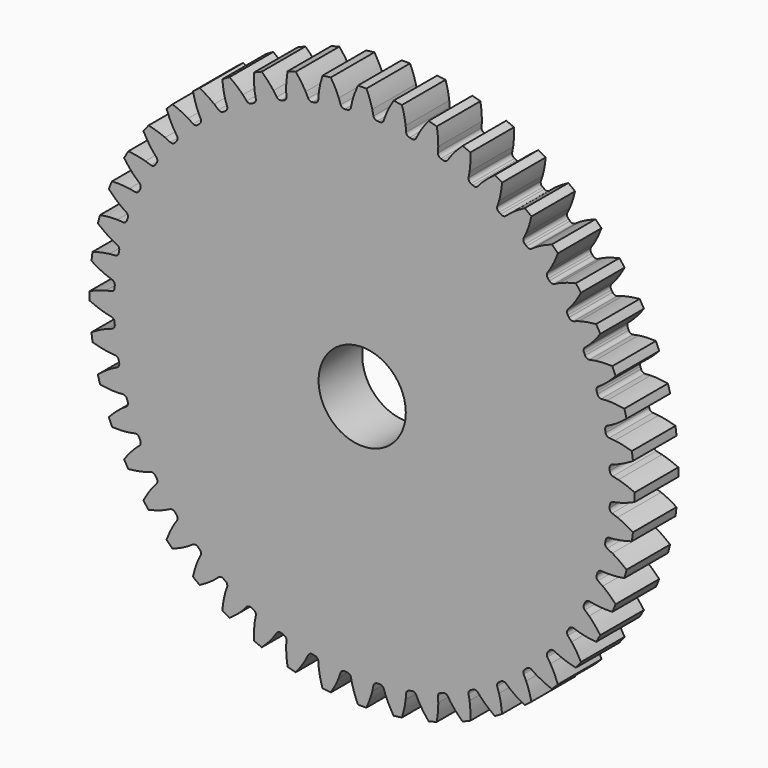
from build123d import *

# Parameters (mm, degrees)
CYLINDER003_R                              = 2
CYLINDER003_DEPTH                          = 5.5
CYLINDER003_ROLL_ANGLE                     = 90
EXTRUDE186_DEPTH                           = 2.5
EXTRUDE186_ONTO_INVOLUTEGEAR001_ROLL_ANGLE = 90


with BuildPart() as cylinder003:
    # Cylinder003 → Cylinder003 (new body)
    with BuildSketch(Plane.XY):
        Circle(CYLINDER003_R)
    extrude(amount=CYLINDER003_DEPTH)


with BuildPart() as cylinder003_1:
    # Cylinder003 roll: moved
    add(cylinder003.part.rotate(Axis((0, 0, 0), (1, 0, 0)), CYLINDER003_ROLL_ANGLE))


with BuildPart() as cylinder003_2:
    # Cylinder003 placement: moved
    add(cylinder003_1.part.moved(Location((-44.75, 22, 11))))


with BuildPart() as cut084:
    # InvoluteGear001 as drawn → Extrude186 (new)
    with BuildSketch(Plane.XY):
        with BuildLine():
            add(Edge.make_bspline(
                [(11.488349, -0.517536), (11.559173, -0.506647), (11.646268, -0.489809), (11.748836, -0.463864)],
                knots=[0, 0, 0, 0, 1, 1, 1, 1], degree=3))
            add(Edge.make_bspline(
                [(11.748836, -0.463864), (11.945939, -0.413978), (12.198803, -0.330892), (12.498691, -0.193151)],
                knots=[0, 0, 0, 0, 1, 1, 1, 1], degree=3))
            ThreePointArc((12.498691, -0.193151), (12.500183, 0), (12.498691, 0.193151))
            add(Edge.make_bspline(
                [(12.498691, 0.193151), (12.198803, 0.330892), (11.945939, 0.413978), (11.748836, 0.463864)],
                knots=[0, 0, 0, 0, 1, 1, 1, 1], degree=3))
            add(Edge.make_bspline(
                [(11.748836, 0.463864), (11.646268, 0.489809), (11.559173, 0.506647), (11.488363, 0.517533)],
                knots=[0, 0, 0, 0, 1, 1, 1, 1], degree=3))
            ThreePointArc((11.488363, 0.517533), (11.391484, 0.584533), (11.353681, 0.696092))
            ThreePointArc((11.353681, 0.696092), (11.350645, 0.743961), (11.347407, 0.791816))
            ThreePointArc((11.347407, 0.791816), (11.370321, 0.907349), (11.457616, 0.986422))
            add(Edge.make_bspline(
                [(11.457616, 0.986422), (11.526413, 1.006462), (11.610566, 1.034525), (11.70887, 1.073635)],
                knots=[0, 0, 0, 0, 1, 1, 1, 1], degree=3))
            add(Edge.make_bspline(
                [(11.70887, 1.073635), (11.897775, 1.148822), (12.137631, 1.264203), (12.416974, 1.439908)],
                knots=[0, 0, 0, 0, 1, 1, 1, 1], degree=3))
            ThreePointArc((12.416974, 1.439908), (12.393243, 1.631601), (12.366552, 1.822905))
            add(Edge.make_bspline(
                [(12.366552, 1.822905), (12.051251, 1.920324), (11.789705, 1.969694), (11.587777, 1.993427)],
                knots=[0, 0, 0, 0, 1, 1, 1, 1], degree=3))
            add(Edge.make_bspline(
                [(11.587777, 1.993427), (11.4827, 2.005762), (11.394152, 2.011087), (11.322527, 2.012638)],
                knots=[0, 0, 0, 0, 1, 1, 1, 1], degree=3))
            ThreePointArc((11.322527, 2.012638), (11.217731, 2.066419), (11.165691, 2.17209))
            ThreePointArc((11.165691, 2.17209), (11.156433, 2.219152), (11.146976, 2.266176))
            ThreePointArc((11.146976, 2.266176), (11.154613, 2.383711), (11.230841, 2.473502))
            add(Edge.make_bspline(
                [(11.230841, 2.473502), (11.296433, 2.502351), (11.376203, 2.541157), (11.468562, 2.592764)],
                knots=[0, 0, 0, 0, 1, 1, 1, 1], degree=3))
            add(Edge.make_bspline(
                [(11.468562, 2.592764), (11.646036, 2.691965), (11.86878, 2.837666), (12.1228, 3.048329)],
                knots=[0, 0, 0, 0, 1, 1, 1, 1], degree=3))
            ThreePointArc((12.1228, 3.048329), (12.07425, 3.235286), (12.022817, 3.421469))
            add(Edge.make_bspline(
                [(12.022817, 3.421469), (11.697498, 3.476899), (11.431746, 3.491708), (11.228448, 3.488881)],
                knots=[0, 0, 0, 0, 1, 1, 1, 1], degree=3))
            add(Edge.make_bspline(
                [(11.228448, 3.488881), (11.122659, 3.487395), (11.034173, 3.481118), (10.962959, 3.473306)],
                knots=[0, 0, 0, 0, 1, 1, 1, 1], degree=3))
            ThreePointArc((10.962959, 3.473306), (10.85204, 3.512948), (10.786652, 3.610922))
            ThreePointArc((10.786652, 3.610922), (10.77133, 3.656374), (10.755817, 3.701761))
            ThreePointArc((10.755817, 3.701761), (10.748047, 3.819288), (10.811903, 3.918259))
            add(Edge.make_bspline(
                [(10.811903, 3.918259), (10.873168, 3.955423), (10.947191, 4.00431), (11.032023, 4.06753)],
                knots=[0, 0, 0, 0, 1, 1, 1, 1], degree=3))
            add(Edge.make_bspline(
                [(11.032023, 4.06753), (11.195031, 4.189047), (11.396851, 4.362576), (11.621201, 4.604593)],
                knots=[0, 0, 0, 0, 1, 1, 1, 1], degree=3))
            ThreePointArc((11.621201, 4.604593), (11.548664, 4.783613), (11.473369, 4.96149))
            add(Edge.make_bspline(
                [(11.473369, 4.96149), (11.143598, 4.973984), (10.878186, 4.953978), (10.676996, 4.92464)],
                knots=[0, 0, 0, 0, 1, 1, 1, 1], degree=3))
            add(Edge.make_bspline(
                [(10.676996, 4.92464), (10.572307, 4.909358), (10.485398, 4.891585), (10.415812, 4.874544)],
                knots=[0, 0, 0, 0, 1, 1, 1, 1], degree=3))
            ThreePointArc((10.415812, 4.874544), (10.300668, 4.89937), (10.223051, 4.987971))
            ThreePointArc((10.223051, 4.987971), (10.201927, 5.031034), (10.180623, 5.074007))
            ThreePointArc((10.180623, 5.074007), (10.157579, 5.189515), (10.20797, 5.295975))
            add(Edge.make_bspline(
                [(10.20797, 5.295975), (10.263861, 5.340817), (10.330869, 5.398947), (10.406723, 5.4727)],
                knots=[0, 0, 0, 0, 1, 1, 1, 1], degree=3))
            add(Edge.make_bspline(
                [(10.406723, 5.4727), (10.552475, 5.614454), (10.729919, 5.812841), (10.92076, 6.082072)],
                knots=[0, 0, 0, 0, 1, 1, 1, 1], degree=3))
            ThreePointArc((10.92076, 6.082072), (10.825476, 6.250092), (10.727608, 6.416619))
            add(Edge.make_bspline(
                [(10.727608, 6.416619), (10.399028, 6.385962), (10.138498, 6.331485), (9.942859, 6.276137)],
                knots=[0, 0, 0, 0, 1, 1, 1, 1], degree=3))
            add(Edge.make_bspline(
                [(9.942859, 6.276137), (9.84106, 6.247321), (9.757214, 6.218356), (9.690447, 6.192378)],
                knots=[0, 0, 0, 0, 1, 1, 1, 1], degree=3))
            ThreePointArc((9.690447, 6.192378), (9.573048, 6.201962), (9.48453, 6.279674))
            ThreePointArc((9.48453, 6.279674), (9.457967, 6.319611), (9.431235, 6.359436))
            ThreePointArc((9.431235, 6.359436), (9.393312, 6.470948), (9.429376, 6.583074))
            add(Edge.make_bspline(
                [(9.429376, 6.583074), (9.478935, 6.634828), (9.537783, 6.701207), (9.603361, 6.78423)],
                knots=[0, 0, 0, 0, 1, 1, 1, 1], degree=3))
            add(Edge.make_bspline(
                [(9.603361, 6.78423), (9.729364, 6.943796), (9.879395, 7.163647), (10.033461, 7.455484)],
                knots=[0, 0, 0, 0, 1, 1, 1, 1], degree=3))
            ThreePointArc((10.033461, 7.455484), (9.917062, 7.609629), (9.798295, 7.761958))
            add(Edge.make_bspline(
                [(9.798295, 7.761958), (9.476527, 7.688675), (9.225337, 7.600657), (9.038596, 7.520247)],
                knots=[0, 0, 0, 0, 1, 1, 1, 1], degree=3))
            add(Edge.make_bspline(
                [(9.038596, 7.520247), (8.941429, 7.47839), (8.862081, 7.438729), (8.799277, 7.404259)],
                knots=[0, 0, 0, 0, 1, 1, 1, 1], degree=3))
            ThreePointArc((8.799277, 7.404259), (8.681631, 7.398437), (8.583727, 7.46393))
            ThreePointArc((8.583727, 7.46393), (8.552178, 7.500059), (8.520476, 7.536054))
            ThreePointArc((8.520476, 7.536054), (8.468323, 7.641661), (8.489443, 7.757536))
            add(Edge.make_bspline(
                [(8.489443, 7.757536), (8.531823, 7.815316), (8.581502, 7.888808), (8.635684, 7.97968)],
                knots=[0, 0, 0, 0, 1, 1, 1, 1], degree=3))
            add(Edge.make_bspline(
                [(8.635684, 7.97968), (8.739781, 8.154328), (8.859832, 8.391881), (8.974488, 8.701331)],
                knots=[0, 0, 0, 0, 1, 1, 1, 1], degree=3))
            ThreePointArc((8.974488, 8.701331), (8.838964, 8.838964), (8.701331, 8.974488))
            add(Edge.make_bspline(
                [(8.701331, 8.974488), (8.391881, 8.859832), (8.154328, 8.739781), (7.97968, 8.635684)],
                knots=[0, 0, 0, 0, 1, 1, 1, 1], degree=3))
            add(Edge.make_bspline(
                [(7.97968, 8.635684), (7.888808, 8.581502), (7.815316, 8.531823), (7.757548, 8.489451)],
                knots=[0, 0, 0, 0, 1, 1, 1, 1], degree=3))
            ThreePointArc((7.757548, 8.489451), (7.641668, 8.468323), (7.536054, 8.520476))
            ThreePointArc((7.536054, 8.520476), (7.500059, 8.552178), (7.46393, 8.583727))
            ThreePointArc((7.46393, 8.583727), (7.398438, 8.681624), (7.404253, 8.799264))
            add(Edge.make_bspline(
                [(7.404253, 8.799264), (7.438729, 8.862081), (7.47839, 8.941429), (7.520247, 9.038596)],
                knots=[0, 0, 0, 0, 1, 1, 1, 1], degree=3))
            add(Edge.make_bspline(
                [(7.520247, 9.038596), (7.600657, 9.225337), (7.688675, 9.476527), (7.761958, 9.798295)],
                knots=[0, 0, 0, 0, 1, 1, 1, 1], degree=3))
            ThreePointArc((7.761958, 9.798295), (7.609629, 9.917062), (7.455484, 10.033461))
            add(Edge.make_bspline(
                [(7.455484, 10.033461), (7.163647, 9.879395), (6.943796, 9.729364), (6.78423, 9.603361)],
                knots=[0, 0, 0, 0, 1, 1, 1, 1], degree=3))
            add(Edge.make_bspline(
                [(6.78423, 9.603361), (6.701207, 9.537783), (6.634828, 9.478935), (6.583085, 9.429385)],
                knots=[0, 0, 0, 0, 1, 1, 1, 1], degree=3))
            ThreePointArc((6.583085, 9.429385), (6.470955, 9.393313), (6.359436, 9.431235))
            ThreePointArc((6.359436, 9.431235), (6.319611, 9.457967), (6.279674, 9.48453))
            ThreePointArc((6.279674, 9.48453), (6.201964, 9.573041), (6.192374, 9.690434))
            add(Edge.make_bspline(
                [(6.192374, 9.690434), (6.218356, 9.757214), (6.247321, 9.84106), (6.276137, 9.942859)],
                knots=[0, 0, 0, 0, 1, 1, 1, 1], degree=3))
            add(Edge.make_bspline(
                [(6.276137, 9.942859), (6.331485, 10.138498), (6.385962, 10.399028), (6.416619, 10.727608)],
                knots=[0, 0, 0, 0, 1, 1, 1, 1], degree=3))
            ThreePointArc((6.416619, 10.727608), (6.250092, 10.825476), (6.082072, 10.92076))
            add(Edge.make_bspline(
                [(6.082072, 10.92076), (5.812841, 10.729919), (5.614454, 10.552475), (5.4727, 10.406723)],
                knots=[0, 0, 0, 0, 1, 1, 1, 1], degree=3))
            add(Edge.make_bspline(
                [(5.4727, 10.406723), (5.398947, 10.330869), (5.340817, 10.263861), (5.295985, 10.207981)],
                knots=[0, 0, 0, 0, 1, 1, 1, 1], degree=3))
            ThreePointArc((5.295985, 10.207981), (5.189522, 10.157581), (5.074007, 10.180623))
            ThreePointArc((5.074007, 10.180623), (5.031034, 10.201927), (4.987971, 10.223051))
            ThreePointArc((4.987971, 10.223051), (4.899373, 10.300661), (4.874542, 10.415798))
            add(Edge.make_bspline(
                [(4.874542, 10.415798), (4.891585, 10.485398), (4.909358, 10.572307), (4.92464, 10.676996)],
                knots=[0, 0, 0, 0, 1, 1, 1, 1], degree=3))
            add(Edge.make_bspline(
                [(4.92464, 10.676996), (4.953978, 10.878186), (4.973984, 11.143598), (4.96149, 11.473369)],
                knots=[0, 0, 0, 0, 1, 1, 1, 1], degree=3))
            ThreePointArc((4.96149, 11.473369), (4.783613, 11.548664), (4.604593, 11.621201))
            add(Edge.make_bspline(
                [(4.604593, 11.621201), (4.362576, 11.396851), (4.189047, 11.195031), (4.06753, 11.032023)],
                knots=[0, 0, 0, 0, 1, 1, 1, 1], degree=3))
            add(Edge.make_bspline(
                [(4.06753, 11.032023), (4.00431, 10.947191), (3.955423, 10.873168), (3.918268, 10.811915)],
                knots=[0, 0, 0, 0, 1, 1, 1, 1], degree=3))
            ThreePointArc((3.918268, 10.811915), (3.819294, 10.74805), (3.701761, 10.755817))
            ThreePointArc((3.701761, 10.755817), (3.656374, 10.77133), (3.610922, 10.786652))
            ThreePointArc((3.610922, 10.786652), (3.512952, 10.852034), (3.473305, 10.962944))
            add(Edge.make_bspline(
                [(3.473305, 10.962944), (3.481118, 11.034173), (3.487395, 11.122659), (3.488881, 11.228448)],
                knots=[0, 0, 0, 0, 1, 1, 1, 1], degree=3))
            add(Edge.make_bspline(
                [(3.488881, 11.228448), (3.491708, 11.431746), (3.476899, 11.697498), (3.421469, 12.022817)],
                knots=[0, 0, 0, 0, 1, 1, 1, 1], degree=3))
            ThreePointArc((3.421469, 12.022817), (3.235286, 12.07425), (3.048329, 12.1228))
            add(Edge.make_bspline(
                [(3.048329, 12.1228), (2.837666, 11.86878), (2.691965, 11.646036), (2.592764, 11.468562)],
                knots=[0, 0, 0, 0, 1, 1, 1, 1], degree=3))
            add(Edge.make_bspline(
                [(2.592764, 11.468562), (2.541157, 11.376203), (2.502351, 11.296433), (2.473508, 11.230854)],
                knots=[0, 0, 0, 0, 1, 1, 1, 1], degree=3))
            ThreePointArc((2.473508, 11.230854), (2.383718, 11.154617), (2.266176, 11.146976))
            ThreePointArc((2.266176, 11.146976), (2.219152, 11.156433), (2.17209, 11.165691))
            ThreePointArc((2.17209, 11.165691), (2.066424, 11.217726), (2.012639, 11.322512))
            add(Edge.make_bspline(
                [(2.012639, 11.322512), (2.011087, 11.394152), (2.005762, 11.4827), (1.993427, 11.587777)],
                knots=[0, 0, 0, 0, 1, 1, 1, 1], degree=3))
            add(Edge.make_bspline(
                [(1.993427, 11.587777), (1.969694, 11.789705), (1.920324, 12.051251), (1.822905, 12.366552)],
                knots=[0, 0, 0, 0, 1, 1, 1, 1], degree=3))
            ThreePointArc((1.822905, 12.366552), (1.631601, 12.393243), (1.439908, 12.416974))
            add(Edge.make_bspline(
                [(1.439908, 12.416974), (1.264203, 12.137631), (1.148822, 11.897775), (1.073635, 11.70887)],
                knots=[0, 0, 0, 0, 1, 1, 1, 1], degree=3))
            add(Edge.make_bspline(
                [(1.073635, 11.70887), (1.034525, 11.610566), (1.006462, 11.526413), (0.986427, 11.45763)],
                knots=[0, 0, 0, 0, 1, 1, 1, 1], degree=3))
            ThreePointArc((0.986427, 11.45763), (0.907355, 11.370325), (0.791816, 11.347407))
            ThreePointArc((0.791816, 11.347407), (0.743961, 11.350645), (0.696092, 11.353681))
            ThreePointArc((0.696092, 11.353681), (0.584538, 11.391479), (0.517536, 11.488349))
            add(Edge.make_bspline(
                [(0.517536, 11.488349), (0.506647, 11.559173), (0.489809, 11.646268), (0.463864, 11.748836)],
                knots=[0, 0, 0, 0, 1, 1, 1, 1], degree=3))
            add(Edge.make_bspline(
                [(0.463864, 11.748836), (0.413978, 11.945939), (0.330892, 12.198803), (0.193151, 12.498691)],
                knots=[0, 0, 0, 0, 1, 1, 1, 1], degree=3))
            ThreePointArc((0.193151, 12.498691), (0, 12.500183), (-0.193151, 12.498691))
            add(Edge.make_bspline(
                [(-0.193151, 12.498691), (-0.330892, 12.198803), (-0.413978, 11.945939), (-0.463864, 11.748836)],
                knots=[0, 0, 0, 0, 1, 1, 1, 1], degree=3))
            add(Edge.make_bspline(
                [(-0.463864, 11.748836), (-0.489809, 11.646268), (-0.506647, 11.559173), (-0.517533, 11.488363)],
                knots=[0, 0, 0, 0, 1, 1, 1, 1], degree=3))
            ThreePointArc((-0.517533, 11.488363), (-0.584533, 11.391484), (-0.696092, 11.353681))
            ThreePointArc((-0.696092, 11.353681), (-0.743961, 11.350645), (-0.791816, 11.347407))
            ThreePointArc((-0.791816, 11.347407), (-0.907349, 11.370321), (-0.986422, 11.457616))
            add(Edge.make_bspline(
                [(-0.986422, 11.457616), (-1.006462, 11.526413), (-1.034525, 11.610566), (-1.073635, 11.70887)],
                knots=[0, 0, 0, 0, 1, 1, 1, 1], degree=3))
            add(Edge.make_bspline(
                [(-1.073635, 11.70887), (-1.148822, 11.897775), (-1.264203, 12.137631), (-1.439908, 12.416974)],
                knots=[0, 0, 0, 0, 1, 1, 1, 1], degree=3))
            ThreePointArc((-1.439908, 12.416974), (-1.631601, 12.393243), (-1.822905, 12.366552))
            add(Edge.make_bspline(
                [(-1.822905, 12.366552), (-1.920324, 12.051251), (-1.969694, 11.789705), (-1.993427, 11.587777)],
                knots=[0, 0, 0, 0, 1, 1, 1, 1], degree=3))
            add(Edge.make_bspline(
                [(-1.993427, 11.587777), (-2.005762, 11.4827), (-2.011087, 11.394152), (-2.012638, 11.322527)],
                knots=[0, 0, 0, 0, 1, 1, 1, 1], degree=3))
            ThreePointArc((-2.012638, 11.322527), (-2.066419, 11.217731), (-2.17209, 11.165691))
            ThreePointArc((-2.17209, 11.165691), (-2.219152, 11.156433), (-2.266176, 11.146976))
            ThreePointArc((-2.266176, 11.146976), (-2.383711, 11.154613), (-2.473502, 11.230841))
            add(Edge.make_bspline(
                [(-2.473502, 11.230841), (-2.502351, 11.296433), (-2.541157, 11.376203), (-2.592764, 11.468562)],
                knots=[0, 0, 0, 0, 1, 1, 1, 1], degree=3))
            add(Edge.make_bspline(
                [(-2.592764, 11.468562), (-2.691965, 11.646036), (-2.837666, 11.86878), (-3.048329, 12.1228)],
                knots=[0, 0, 0, 0, 1, 1, 1, 1], degree=3))
            ThreePointArc((-3.048329, 12.1228), (-3.235286, 12.07425), (-3.421469, 12.022817))
            add(Edge.make_bspline(
                [(-3.421469, 12.022817), (-3.476899, 11.697498), (-3.491708, 11.431746), (-3.488881, 11.228448)],
                knots=[0, 0, 0, 0, 1, 1, 1, 1], degree=3))
            add(Edge.make_bspline(
                [(-3.488881, 11.228448), (-3.487395, 11.122659), (-3.481118, 11.034173), (-3.473306, 10.962959)],
                knots=[0, 0, 0, 0, 1, 1, 1, 1], degree=3))
            ThreePointArc((-3.473306, 10.962959), (-3.512948, 10.85204), (-3.610922, 10.786652))
            ThreePointArc((-3.610922, 10.786652), (-3.656374, 10.77133), (-3.701761, 10.755817))
            ThreePointArc((-3.701761, 10.755817), (-3.819288, 10.748047), (-3.918259, 10.811903))
            add(Edge.make_bspline(
                [(-3.918259, 10.811903), (-3.955423, 10.873168), (-4.00431, 10.947191), (-4.06753, 11.032023)],
                knots=[0, 0, 0, 0, 1, 1, 1, 1], degree=3))
            add(Edge.make_bspline(
                [(-4.06753, 11.032023), (-4.189047, 11.195031), (-4.362576, 11.396851), (-4.604593, 11.621201)],
                knots=[0, 0, 0, 0, 1, 1, 1, 1], degree=3))
            ThreePointArc((-4.604593, 11.621201), (-4.783613, 11.548664), (-4.96149, 11.473369))
            add(Edge.make_bspline(
                [(-4.96149, 11.473369), (-4.973984, 11.143598), (-4.953978, 10.878186), (-4.92464, 10.676996)],
                knots=[0, 0, 0, 0, 1, 1, 1, 1], degree=3))
            add(Edge.make_bspline(
                [(-4.92464, 10.676996), (-4.909358, 10.572307), (-4.891585, 10.485398), (-4.874544, 10.415812)],
                knots=[0, 0, 0, 0, 1, 1, 1, 1], degree=3))
            ThreePointArc((-4.874544, 10.415812), (-4.89937, 10.300668), (-4.987971, 10.223051))
            ThreePointArc((-4.987971, 10.223051), (-5.031034, 10.201927), (-5.074007, 10.180623))
            ThreePointArc((-5.074007, 10.180623), (-5.189515, 10.157579), (-5.295975, 10.20797))
            add(Edge.make_bspline(
                [(-5.295975, 10.20797), (-5.340817, 10.263861), (-5.398947, 10.330869), (-5.4727, 10.406723)],
                knots=[0, 0, 0, 0, 1, 1, 1, 1], degree=3))
            add(Edge.make_bspline(
                [(-5.4727, 10.406723), (-5.614454, 10.552475), (-5.812841, 10.729919), (-6.082072, 10.92076)],
                knots=[0, 0, 0, 0, 1, 1, 1, 1], degree=3))
            ThreePointArc((-6.082072, 10.92076), (-6.250092, 10.825476), (-6.416619, 10.727608))
            add(Edge.make_bspline(
                [(-6.416619, 10.727608), (-6.385962, 10.399028), (-6.331485, 10.138498), (-6.276137, 9.942859)],
                knots=[0, 0, 0, 0, 1, 1, 1, 1], degree=3))
            add(Edge.make_bspline(
                [(-6.276137, 9.942859), (-6.247321, 9.84106), (-6.218356, 9.757214), (-6.192378, 9.690447)],
                knots=[0, 0, 0, 0, 1, 1, 1, 1], degree=3))
            ThreePointArc((-6.192378, 9.690447), (-6.201962, 9.573048), (-6.279674, 9.48453))
            ThreePointArc((-6.279674, 9.48453), (-6.319611, 9.457967), (-6.359436, 9.431235))
            ThreePointArc((-6.359436, 9.431235), (-6.470948, 9.393312), (-6.583074, 9.429376))
            add(Edge.make_bspline(
                [(-6.583074, 9.429376), (-6.634828, 9.478935), (-6.701207, 9.537783), (-6.78423, 9.603361)],
                knots=[0, 0, 0, 0, 1, 1, 1, 1], degree=3))
            add(Edge.make_bspline(
                [(-6.78423, 9.603361), (-6.943796, 9.729364), (-7.163647, 9.879395), (-7.455484, 10.033461)],
                knots=[0, 0, 0, 0, 1, 1, 1, 1], degree=3))
            ThreePointArc((-7.455484, 10.033461), (-7.609629, 9.917062), (-7.761958, 9.798295))
            add(Edge.make_bspline(
                [(-7.761958, 9.798295), (-7.688675, 9.476527), (-7.600657, 9.225337), (-7.520247, 9.038596)],
                knots=[0, 0, 0, 0, 1, 1, 1, 1], degree=3))
            add(Edge.make_bspline(
                [(-7.520247, 9.038596), (-7.47839, 8.941429), (-7.438729, 8.862081), (-7.404259, 8.799277)],
                knots=[0, 0, 0, 0, 1, 1, 1, 1], degree=3))
            ThreePointArc((-7.404259, 8.799277), (-7.398437, 8.681631), (-7.46393, 8.583727))
            ThreePointArc((-7.46393, 8.583727), (-7.500059, 8.552178), (-7.536054, 8.520476))
            ThreePointArc((-7.536054, 8.520476), (-7.641661, 8.468323), (-7.757536, 8.489443))
            add(Edge.make_bspline(
                [(-7.757536, 8.489443), (-7.815316, 8.531823), (-7.888808, 8.581502), (-7.97968, 8.635684)],
                knots=[0, 0, 0, 0, 1, 1, 1, 1], degree=3))
            add(Edge.make_bspline(
                [(-7.97968, 8.635684), (-8.154328, 8.739781), (-8.391881, 8.859832), (-8.701331, 8.974488)],
                knots=[0, 0, 0, 0, 1, 1, 1, 1], degree=3))
            ThreePointArc((-8.701331, 8.974488), (-8.838964, 8.838964), (-8.974488, 8.701331))
            add(Edge.make_bspline(
                [(-8.974488, 8.701331), (-8.859832, 8.391881), (-8.739781, 8.154328), (-8.635684, 7.97968)],
                knots=[0, 0, 0, 0, 1, 1, 1, 1], degree=3))
            add(Edge.make_bspline(
                [(-8.635684, 7.97968), (-8.581502, 7.888808), (-8.531823, 7.815316), (-8.489451, 7.757548)],
                knots=[0, 0, 0, 0, 1, 1, 1, 1], degree=3))
            ThreePointArc((-8.489451, 7.757548), (-8.468323, 7.641668), (-8.520476, 7.536054))
            ThreePointArc((-8.520476, 7.536054), (-8.552178, 7.500059), (-8.583727, 7.46393))
            ThreePointArc((-8.583727, 7.46393), (-8.681624, 7.398438), (-8.799264, 7.404253))
            add(Edge.make_bspline(
                [(-8.799264, 7.404253), (-8.862081, 7.438729), (-8.941429, 7.47839), (-9.038596, 7.520247)],
                knots=[0, 0, 0, 0, 1, 1, 1, 1], degree=3))
            add(Edge.make_bspline(
                [(-9.038596, 7.520247), (-9.225337, 7.600657), (-9.476527, 7.688675), (-9.798295, 7.761958)],
                knots=[0, 0, 0, 0, 1, 1, 1, 1], degree=3))
            ThreePointArc((-9.798295, 7.761958), (-9.917062, 7.609629), (-10.033461, 7.455484))
            add(Edge.make_bspline(
                [(-10.033461, 7.455484), (-9.879395, 7.163647), (-9.729364, 6.943796), (-9.603361, 6.78423)],
                knots=[0, 0, 0, 0, 1, 1, 1, 1], degree=3))
            add(Edge.make_bspline(
                [(-9.603361, 6.78423), (-9.537783, 6.701207), (-9.478935, 6.634828), (-9.429385, 6.583085)],
                knots=[0, 0, 0, 0, 1, 1, 1, 1], degree=3))
            ThreePointArc((-9.429385, 6.583085), (-9.393313, 6.470955), (-9.431235, 6.359436))
            ThreePointArc((-9.431235, 6.359436), (-9.457967, 6.319611), (-9.48453, 6.279674))
            ThreePointArc((-9.48453, 6.279674), (-9.573041, 6.201964), (-9.690434, 6.192374))
            add(Edge.make_bspline(
                [(-9.690434, 6.192374), (-9.757214, 6.218356), (-9.84106, 6.247321), (-9.942859, 6.276137)],
                knots=[0, 0, 0, 0, 1, 1, 1, 1], degree=3))
            add(Edge.make_bspline(
                [(-9.942859, 6.276137), (-10.138498, 6.331485), (-10.399028, 6.385962), (-10.727608, 6.416619)],
                knots=[0, 0, 0, 0, 1, 1, 1, 1], degree=3))
            ThreePointArc((-10.727608, 6.416619), (-10.825476, 6.250092), (-10.92076, 6.082072))
            add(Edge.make_bspline(
                [(-10.92076, 6.082072), (-10.729919, 5.812841), (-10.552475, 5.614454), (-10.406723, 5.4727)],
                knots=[0, 0, 0, 0, 1, 1, 1, 1], degree=3))
            add(Edge.make_bspline(
                [(-10.406723, 5.4727), (-10.330869, 5.398947), (-10.263861, 5.340817), (-10.207981, 5.295985)],
                knots=[0, 0, 0, 0, 1, 1, 1, 1], degree=3))
            ThreePointArc((-10.207981, 5.295985), (-10.157581, 5.189522), (-10.180623, 5.074007))
            ThreePointArc((-10.180623, 5.074007), (-10.201927, 5.031034), (-10.223051, 4.987971))
            ThreePointArc((-10.223051, 4.987971), (-10.300661, 4.899373), (-10.415798, 4.874542))
            add(Edge.make_bspline(
                [(-10.415798, 4.874542), (-10.485398, 4.891585), (-10.572307, 4.909358), (-10.676996, 4.92464)],
                knots=[0, 0, 0, 0, 1, 1, 1, 1], degree=3))
            add(Edge.make_bspline(
                [(-10.676996, 4.92464), (-10.878186, 4.953978), (-11.143598, 4.973984), (-11.473369, 4.96149)],
                knots=[0, 0, 0, 0, 1, 1, 1, 1], degree=3))
            ThreePointArc((-11.473369, 4.96149), (-11.548664, 4.783613), (-11.621201, 4.604593))
            add(Edge.make_bspline(
                [(-11.621201, 4.604593), (-11.396851, 4.362576), (-11.195031, 4.189047), (-11.032023, 4.06753)],
                knots=[0, 0, 0, 0, 1, 1, 1, 1], degree=3))
            add(Edge.make_bspline(
                [(-11.032023, 4.06753), (-10.947191, 4.00431), (-10.873168, 3.955423), (-10.811915, 3.918268)],
                knots=[0, 0, 0, 0, 1, 1, 1, 1], degree=3))
            ThreePointArc((-10.811915, 3.918268), (-10.74805, 3.819294), (-10.755817, 3.701761))
            ThreePointArc((-10.755817, 3.701761), (-10.77133, 3.656374), (-10.786652, 3.610922))
            ThreePointArc((-10.786652, 3.610922), (-10.852034, 3.512952), (-10.962944, 3.473305))
            add(Edge.make_bspline(
                [(-10.962944, 3.473305), (-11.034173, 3.481118), (-11.122659, 3.487395), (-11.228448, 3.488881)],
                knots=[0, 0, 0, 0, 1, 1, 1, 1], degree=3))
            add(Edge.make_bspline(
                [(-11.228448, 3.488881), (-11.431746, 3.491708), (-11.697498, 3.476899), (-12.022817, 3.421469)],
                knots=[0, 0, 0, 0, 1, 1, 1, 1], degree=3))
            ThreePointArc((-12.022817, 3.421469), (-12.07425, 3.235286), (-12.1228, 3.048329))
            add(Edge.make_bspline(
                [(-12.1228, 3.048329), (-11.86878, 2.837666), (-11.646036, 2.691965), (-11.468562, 2.592764)],
                knots=[0, 0, 0, 0, 1, 1, 1, 1], degree=3))
            add(Edge.make_bspline(
                [(-11.468562, 2.592764), (-11.376203, 2.541157), (-11.296433, 2.502351), (-11.230854, 2.473508)],
                knots=[0, 0, 0, 0, 1, 1, 1, 1], degree=3))
            ThreePointArc((-11.230854, 2.473508), (-11.154617, 2.383718), (-11.146976, 2.266176))
            ThreePointArc((-11.146976, 2.266176), (-11.156433, 2.219152), (-11.165691, 2.17209))
            ThreePointArc((-11.165691, 2.17209), (-11.217726, 2.066424), (-11.322512, 2.012639))
            add(Edge.make_bspline(
                [(-11.322512, 2.012639), (-11.394152, 2.011087), (-11.4827, 2.005762), (-11.587777, 1.993427)],
                knots=[0, 0, 0, 0, 1, 1, 1, 1], degree=3))
            add(Edge.make_bspline(
                [(-11.587777, 1.993427), (-11.789705, 1.969694), (-12.051251, 1.920324), (-12.366552, 1.822905)],
                knots=[0, 0, 0, 0, 1, 1, 1, 1], degree=3))
            ThreePointArc((-12.366552, 1.822905), (-12.393243, 1.631601), (-12.416974, 1.439908))
            add(Edge.make_bspline(
                [(-12.416974, 1.439908), (-12.137631, 1.264203), (-11.897775, 1.148822), (-11.70887, 1.073635)],
                knots=[0, 0, 0, 0, 1, 1, 1, 1], degree=3))
            add(Edge.make_bspline(
                [(-11.70887, 1.073635), (-11.610566, 1.034525), (-11.526413, 1.006462), (-11.45763, 0.986427)],
                knots=[0, 0, 0, 0, 1, 1, 1, 1], degree=3))
            ThreePointArc((-11.45763, 0.986427), (-11.370325, 0.907355), (-11.347407, 0.791816))
            ThreePointArc((-11.347407, 0.791816), (-11.350645, 0.743961), (-11.353681, 0.696092))
            ThreePointArc((-11.353681, 0.696092), (-11.391479, 0.584538), (-11.488349, 0.517536))
            add(Edge.make_bspline(
                [(-11.488349, 0.517536), (-11.559173, 0.506647), (-11.646268, 0.489809), (-11.748836, 0.463864)],
                knots=[0, 0, 0, 0, 1, 1, 1, 1], degree=3))
            add(Edge.make_bspline(
                [(-11.748836, 0.463864), (-11.945939, 0.413978), (-12.198803, 0.330892), (-12.498691, 0.193151)],
                knots=[0, 0, 0, 0, 1, 1, 1, 1], degree=3))
            ThreePointArc((-12.498691, 0.193151), (-12.500183, 0), (-12.498691, -0.193151))
            add(Edge.make_bspline(
                [(-12.498691, -0.193151), (-12.198803, -0.330892), (-11.945939, -0.413978), (-11.748836, -0.463864)],
                knots=[0, 0, 0, 0, 1, 1, 1, 1], degree=3))
            add(Edge.make_bspline(
                [(-11.748836, -0.463864), (-11.646268, -0.489809), (-11.559173, -0.506647), (-11.488363, -0.517533)],
                knots=[0, 0, 0, 0, 1, 1, 1, 1], degree=3))
            ThreePointArc((-11.488363, -0.517533), (-11.391484, -0.584533), (-11.353681, -0.696092))
            ThreePointArc((-11.353681, -0.696092), (-11.350645, -0.743961), (-11.347407, -0.791816))
            ThreePointArc((-11.347407, -0.791816), (-11.370321, -0.907349), (-11.457616, -0.986422))
            add(Edge.make_bspline(
                [(-11.457616, -0.986422), (-11.526413, -1.006462), (-11.610566, -1.034525), (-11.70887, -1.073635)],
                knots=[0, 0, 0, 0, 1, 1, 1, 1], degree=3))
            add(Edge.make_bspline(
                [(-11.70887, -1.073635), (-11.897775, -1.148822), (-12.137631, -1.264203), (-12.416974, -1.439908)],
                knots=[0, 0, 0, 0, 1, 1, 1, 1], degree=3))
            ThreePointArc((-12.416974, -1.439908), (-12.393243, -1.631601), (-12.366552, -1.822905))
            add(Edge.make_bspline(
                [(-12.366552, -1.822905), (-12.051251, -1.920324), (-11.789705, -1.969694), (-11.587777, -1.993427)],
                knots=[0, 0, 0, 0, 1, 1, 1, 1], degree=3))
            add(Edge.make_bspline(
                [(-11.587777, -1.993427), (-11.4827, -2.005762), (-11.394152, -2.011087), (-11.322527, -2.012638)],
                knots=[0, 0, 0, 0, 1, 1, 1, 1], degree=3))
            ThreePointArc((-11.322527, -2.012638), (-11.217731, -2.066419), (-11.165691, -2.17209))
            ThreePointArc((-11.165691, -2.17209), (-11.156433, -2.219152), (-11.146976, -2.266176))
            ThreePointArc((-11.146976, -2.266176), (-11.154613, -2.383711), (-11.230841, -2.473502))
            add(Edge.make_bspline(
                [(-11.230841, -2.473502), (-11.296433, -2.502351), (-11.376203, -2.541157), (-11.468562, -2.592764)],
                knots=[0, 0, 0, 0, 1, 1, 1, 1], degree=3))
            add(Edge.make_bspline(
                [(-11.468562, -2.592764), (-11.646036, -2.691965), (-11.86878, -2.837666), (-12.1228, -3.048329)],
                knots=[0, 0, 0, 0, 1, 1, 1, 1], degree=3))
            ThreePointArc((-12.1228, -3.048329), (-12.07425, -3.235286), (-12.022817, -3.421469))
            add(Edge.make_bspline(
                [(-12.022817, -3.421469), (-11.697498, -3.476899), (-11.431746, -3.491708), (-11.228448, -3.488881)],
                knots=[0, 0, 0, 0, 1, 1, 1, 1], degree=3))
            add(Edge.make_bspline(
                [(-11.228448, -3.488881), (-11.122659, -3.487395), (-11.034173, -3.481118), (-10.962959, -3.473306)],
                knots=[0, 0, 0, 0, 1, 1, 1, 1], degree=3))
            ThreePointArc((-10.962959, -3.473306), (-10.85204, -3.512948), (-10.786652, -3.610922))
            ThreePointArc((-10.786652, -3.610922), (-10.77133, -3.656374), (-10.755817, -3.701761))
            ThreePointArc((-10.755817, -3.701761), (-10.748047, -3.819288), (-10.811903, -3.918259))
            add(Edge.make_bspline(
                [(-10.811903, -3.918259), (-10.873168, -3.955423), (-10.947191, -4.00431), (-11.032023, -4.06753)],
                knots=[0, 0, 0, 0, 1, 1, 1, 1], degree=3))
            add(Edge.make_bspline(
                [(-11.032023, -4.06753), (-11.195031, -4.189047), (-11.396851, -4.362576), (-11.621201, -4.604593)],
                knots=[0, 0, 0, 0, 1, 1, 1, 1], degree=3))
            ThreePointArc((-11.621201, -4.604593), (-11.548664, -4.783613), (-11.473369, -4.96149))
            add(Edge.make_bspline(
                [(-11.473369, -4.96149), (-11.143598, -4.973984), (-10.878186, -4.953978), (-10.676996, -4.92464)],
                knots=[0, 0, 0, 0, 1, 1, 1, 1], degree=3))
            add(Edge.make_bspline(
                [(-10.676996, -4.92464), (-10.572307, -4.909358), (-10.485398, -4.891585), (-10.415812, -4.874544)],
                knots=[0, 0, 0, 0, 1, 1, 1, 1], degree=3))
            ThreePointArc((-10.415812, -4.874544), (-10.300668, -4.89937), (-10.223051, -4.987971))
            ThreePointArc((-10.223051, -4.987971), (-10.201927, -5.031034), (-10.180623, -5.074007))
            ThreePointArc((-10.180623, -5.074007), (-10.157579, -5.189515), (-10.20797, -5.295975))
            add(Edge.make_bspline(
                [(-10.20797, -5.295975), (-10.263861, -5.340817), (-10.330869, -5.398947), (-10.406723, -5.4727)],
                knots=[0, 0, 0, 0, 1, 1, 1, 1], degree=3))
            add(Edge.make_bspline(
                [(-10.406723, -5.4727), (-10.552475, -5.614454), (-10.729919, -5.812841), (-10.92076, -6.082072)],
                knots=[0, 0, 0, 0, 1, 1, 1, 1], degree=3))
            ThreePointArc((-10.92076, -6.082072), (-10.825476, -6.250092), (-10.727608, -6.416619))
            add(Edge.make_bspline(
                [(-10.727608, -6.416619), (-10.399028, -6.385962), (-10.138498, -6.331485), (-9.942859, -6.276137)],
                knots=[0, 0, 0, 0, 1, 1, 1, 1], degree=3))
            add(Edge.make_bspline(
                [(-9.942859, -6.276137), (-9.84106, -6.247321), (-9.757214, -6.218356), (-9.690447, -6.192378)],
                knots=[0, 0, 0, 0, 1, 1, 1, 1], degree=3))
            ThreePointArc((-9.690447, -6.192378), (-9.573048, -6.201962), (-9.48453, -6.279674))
            ThreePointArc((-9.48453, -6.279674), (-9.457967, -6.319611), (-9.431235, -6.359436))
            ThreePointArc((-9.431235, -6.359436), (-9.393312, -6.470948), (-9.429376, -6.583074))
            add(Edge.make_bspline(
                [(-9.429376, -6.583074), (-9.478935, -6.634828), (-9.537783, -6.701207), (-9.603361, -6.78423)],
                knots=[0, 0, 0, 0, 1, 1, 1, 1], degree=3))
            add(Edge.make_bspline(
                [(-9.603361, -6.78423), (-9.729364, -6.943796), (-9.879395, -7.163647), (-10.033461, -7.455484)],
                knots=[0, 0, 0, 0, 1, 1, 1, 1], degree=3))
            ThreePointArc((-10.033461, -7.455484), (-9.917062, -7.609629), (-9.798295, -7.761958))
            add(Edge.make_bspline(
                [(-9.798295, -7.761958), (-9.476527, -7.688675), (-9.225337, -7.600657), (-9.038596, -7.520247)],
                knots=[0, 0, 0, 0, 1, 1, 1, 1], degree=3))
            add(Edge.make_bspline(
                [(-9.038596, -7.520247), (-8.941429, -7.47839), (-8.862081, -7.438729), (-8.799277, -7.404259)],
                knots=[0, 0, 0, 0, 1, 1, 1, 1], degree=3))
            ThreePointArc((-8.799277, -7.404259), (-8.681631, -7.398437), (-8.583727, -7.46393))
            ThreePointArc((-8.583727, -7.46393), (-8.552178, -7.500059), (-8.520476, -7.536054))
            ThreePointArc((-8.520476, -7.536054), (-8.468323, -7.641661), (-8.489443, -7.757536))
            add(Edge.make_bspline(
                [(-8.489443, -7.757536), (-8.531823, -7.815316), (-8.581502, -7.888808), (-8.635684, -7.97968)],
                knots=[0, 0, 0, 0, 1, 1, 1, 1], degree=3))
            add(Edge.make_bspline(
                [(-8.635684, -7.97968), (-8.739781, -8.154328), (-8.859832, -8.391881), (-8.974488, -8.701331)],
                knots=[0, 0, 0, 0, 1, 1, 1, 1], degree=3))
            ThreePointArc((-8.974488, -8.701331), (-8.838964, -8.838964), (-8.701331, -8.974488))
            add(Edge.make_bspline(
                [(-8.701331, -8.974488), (-8.391881, -8.859832), (-8.154328, -8.739781), (-7.97968, -8.635684)],
                knots=[0, 0, 0, 0, 1, 1, 1, 1], degree=3))
            add(Edge.make_bspline(
                [(-7.97968, -8.635684), (-7.888808, -8.581502), (-7.815316, -8.531823), (-7.757548, -8.489451)],
                knots=[0, 0, 0, 0, 1, 1, 1, 1], degree=3))
            ThreePointArc((-7.757548, -8.489451), (-7.641668, -8.468323), (-7.536054, -8.520476))
            ThreePointArc((-7.536054, -8.520476), (-7.500059, -8.552178), (-7.46393, -8.583727))
            ThreePointArc((-7.46393, -8.583727), (-7.398438, -8.681624), (-7.404253, -8.799264))
            add(Edge.make_bspline(
                [(-7.404253, -8.799264), (-7.438729, -8.862081), (-7.47839, -8.941429), (-7.520247, -9.038596)],
                knots=[0, 0, 0, 0, 1, 1, 1, 1], degree=3))
            add(Edge.make_bspline(
                [(-7.520247, -9.038596), (-7.600657, -9.225337), (-7.688675, -9.476527), (-7.761958, -9.798295)],
                knots=[0, 0, 0, 0, 1, 1, 1, 1], degree=3))
            ThreePointArc((-7.761958, -9.798295), (-7.609629, -9.917062), (-7.455484, -10.033461))
            add(Edge.make_bspline(
                [(-7.455484, -10.033461), (-7.163647, -9.879395), (-6.943796, -9.729364), (-6.78423, -9.603361)],
                knots=[0, 0, 0, 0, 1, 1, 1, 1], degree=3))
            add(Edge.make_bspline(
                [(-6.78423, -9.603361), (-6.701207, -9.537783), (-6.634828, -9.478935), (-6.583085, -9.429385)],
                knots=[0, 0, 0, 0, 1, 1, 1, 1], degree=3))
            ThreePointArc((-6.583085, -9.429385), (-6.470955, -9.393313), (-6.359436, -9.431235))
            ThreePointArc((-6.359436, -9.431235), (-6.319611, -9.457967), (-6.279674, -9.48453))
            ThreePointArc((-6.279674, -9.48453), (-6.201964, -9.573041), (-6.192374, -9.690434))
            add(Edge.make_bspline(
                [(-6.192374, -9.690434), (-6.218356, -9.757214), (-6.247321, -9.84106), (-6.276137, -9.942859)],
                knots=[0, 0, 0, 0, 1, 1, 1, 1], degree=3))
            add(Edge.make_bspline(
                [(-6.276137, -9.942859), (-6.331485, -10.138498), (-6.385962, -10.399028), (-6.416619, -10.727608)],
                knots=[0, 0, 0, 0, 1, 1, 1, 1], degree=3))
            ThreePointArc((-6.416619, -10.727608), (-6.250092, -10.825476), (-6.082072, -10.92076))
            add(Edge.make_bspline(
                [(-6.082072, -10.92076), (-5.812841, -10.729919), (-5.614454, -10.552475), (-5.4727, -10.406723)],
                knots=[0, 0, 0, 0, 1, 1, 1, 1], degree=3))
            add(Edge.make_bspline(
                [(-5.4727, -10.406723), (-5.398947, -10.330869), (-5.340817, -10.263861), (-5.295985, -10.207981)],
                knots=[0, 0, 0, 0, 1, 1, 1, 1], degree=3))
            ThreePointArc((-5.295985, -10.207981), (-5.189522, -10.157581), (-5.074007, -10.180623))
            ThreePointArc((-5.074007, -10.180623), (-5.031034, -10.201927), (-4.987971, -10.223051))
            ThreePointArc((-4.987971, -10.223051), (-4.899373, -10.300661), (-4.874542, -10.415798))
            add(Edge.make_bspline(
                [(-4.874542, -10.415798), (-4.891585, -10.485398), (-4.909358, -10.572307), (-4.92464, -10.676996)],
                knots=[0, 0, 0, 0, 1, 1, 1, 1], degree=3))
            add(Edge.make_bspline(
                [(-4.92464, -10.676996), (-4.953978, -10.878186), (-4.973984, -11.143598), (-4.96149, -11.473369)],
                knots=[0, 0, 0, 0, 1, 1, 1, 1], degree=3))
            ThreePointArc((-4.96149, -11.473369), (-4.783613, -11.548664), (-4.604593, -11.621201))
            add(Edge.make_bspline(
                [(-4.604593, -11.621201), (-4.362576, -11.396851), (-4.189047, -11.195031), (-4.06753, -11.032023)],
                knots=[0, 0, 0, 0, 1, 1, 1, 1], degree=3))
            add(Edge.make_bspline(
                [(-4.06753, -11.032023), (-4.00431, -10.947191), (-3.955423, -10.873168), (-3.918268, -10.811915)],
                knots=[0, 0, 0, 0, 1, 1, 1, 1], degree=3))
            ThreePointArc((-3.918268, -10.811915), (-3.819294, -10.74805), (-3.701761, -10.755817))
            ThreePointArc((-3.701761, -10.755817), (-3.656374, -10.77133), (-3.610922, -10.786652))
            ThreePointArc((-3.610922, -10.786652), (-3.512952, -10.852034), (-3.473305, -10.962944))
            add(Edge.make_bspline(
                [(-3.473305, -10.962944), (-3.481118, -11.034173), (-3.487395, -11.122659), (-3.488881, -11.228448)],
                knots=[0, 0, 0, 0, 1, 1, 1, 1], degree=3))
            add(Edge.make_bspline(
                [(-3.488881, -11.228448), (-3.491708, -11.431746), (-3.476899, -11.697498), (-3.421469, -12.022817)],
                knots=[0, 0, 0, 0, 1, 1, 1, 1], degree=3))
            ThreePointArc((-3.421469, -12.022817), (-3.235286, -12.07425), (-3.048329, -12.1228))
            add(Edge.make_bspline(
                [(-3.048329, -12.1228), (-2.837666, -11.86878), (-2.691965, -11.646036), (-2.592764, -11.468562)],
                knots=[0, 0, 0, 0, 1, 1, 1, 1], degree=3))
            add(Edge.make_bspline(
                [(-2.592764, -11.468562), (-2.541157, -11.376203), (-2.502351, -11.296433), (-2.473508, -11.230854)],
                knots=[0, 0, 0, 0, 1, 1, 1, 1], degree=3))
            ThreePointArc((-2.473508, -11.230854), (-2.383718, -11.154617), (-2.266176, -11.146976))
            ThreePointArc((-2.266176, -11.146976), (-2.219152, -11.156433), (-2.17209, -11.165691))
            ThreePointArc((-2.17209, -11.165691), (-2.066424, -11.217726), (-2.012639, -11.322512))
            add(Edge.make_bspline(
                [(-2.012639, -11.322512), (-2.011087, -11.394152), (-2.005762, -11.4827), (-1.993427, -11.587777)],
                knots=[0, 0, 0, 0, 1, 1, 1, 1], degree=3))
            add(Edge.make_bspline(
                [(-1.993427, -11.587777), (-1.969694, -11.789705), (-1.920324, -12.051251), (-1.822905, -12.366552)],
                knots=[0, 0, 0, 0, 1, 1, 1, 1], degree=3))
            ThreePointArc((-1.822905, -12.366552), (-1.631601, -12.393243), (-1.439908, -12.416974))
            add(Edge.make_bspline(
                [(-1.439908, -12.416974), (-1.264203, -12.137631), (-1.148822, -11.897775), (-1.073635, -11.70887)],
                knots=[0, 0, 0, 0, 1, 1, 1, 1], degree=3))
            add(Edge.make_bspline(
                [(-1.073635, -11.70887), (-1.034525, -11.610566), (-1.006462, -11.526413), (-0.986427, -11.45763)],
                knots=[0, 0, 0, 0, 1, 1, 1, 1], degree=3))
            ThreePointArc((-0.986427, -11.45763), (-0.907355, -11.370325), (-0.791816, -11.347407))
            ThreePointArc((-0.791816, -11.347407), (-0.743961, -11.350645), (-0.696092, -11.353681))
            ThreePointArc((-0.696092, -11.353681), (-0.584538, -11.391479), (-0.517536, -11.488349))
            add(Edge.make_bspline(
                [(-0.517536, -11.488349), (-0.506647, -11.559173), (-0.489809, -11.646268), (-0.463864, -11.748836)],
                knots=[0, 0, 0, 0, 1, 1, 1, 1], degree=3))
            add(Edge.make_bspline(
                [(-0.463864, -11.748836), (-0.413978, -11.945939), (-0.330892, -12.198803), (-0.193151, -12.498691)],
                knots=[0, 0, 0, 0, 1, 1, 1, 1], degree=3))
            ThreePointArc((-0.193151, -12.498691), (0, -12.500183), (0.193151, -12.498691))
            add(Edge.make_bspline(
                [(0.193151, -12.498691), (0.330892, -12.198803), (0.413978, -11.945939), (0.463864, -11.748836)],
                knots=[0, 0, 0, 0, 1, 1, 1, 1], degree=3))
            add(Edge.make_bspline(
                [(0.463864, -11.748836), (0.489809, -11.646268), (0.506647, -11.559173), (0.517533, -11.488363)],
                knots=[0, 0, 0, 0, 1, 1, 1, 1], degree=3))
            ThreePointArc((0.517533, -11.488363), (0.584533, -11.391484), (0.696092, -11.353681))
            ThreePointArc((0.696092, -11.353681), (0.743961, -11.350645), (0.791816, -11.347407))
            ThreePointArc((0.791816, -11.347407), (0.907349, -11.370321), (0.986422, -11.457616))
            add(Edge.make_bspline(
                [(0.986422, -11.457616), (1.006462, -11.526413), (1.034525, -11.610566), (1.073635, -11.70887)],
                knots=[0, 0, 0, 0, 1, 1, 1, 1], degree=3))
            add(Edge.make_bspline(
                [(1.073635, -11.70887), (1.148822, -11.897775), (1.264203, -12.137631), (1.439908, -12.416974)],
                knots=[0, 0, 0, 0, 1, 1, 1, 1], degree=3))
            ThreePointArc((1.439908, -12.416974), (1.631601, -12.393243), (1.822905, -12.366552))
            add(Edge.make_bspline(
                [(1.822905, -12.366552), (1.920324, -12.051251), (1.969694, -11.789705), (1.993427, -11.587777)],
                knots=[0, 0, 0, 0, 1, 1, 1, 1], degree=3))
            add(Edge.make_bspline(
                [(1.993427, -11.587777), (2.005762, -11.4827), (2.011087, -11.394152), (2.012638, -11.322527)],
                knots=[0, 0, 0, 0, 1, 1, 1, 1], degree=3))
            ThreePointArc((2.012638, -11.322527), (2.066419, -11.217731), (2.17209, -11.165691))
            ThreePointArc((2.17209, -11.165691), (2.219152, -11.156433), (2.266176, -11.146976))
            ThreePointArc((2.266176, -11.146976), (2.383711, -11.154613), (2.473502, -11.230841))
            add(Edge.make_bspline(
                [(2.473502, -11.230841), (2.502351, -11.296433), (2.541157, -11.376203), (2.592764, -11.468562)],
                knots=[0, 0, 0, 0, 1, 1, 1, 1], degree=3))
            add(Edge.make_bspline(
                [(2.592764, -11.468562), (2.691965, -11.646036), (2.837666, -11.86878), (3.048329, -12.1228)],
                knots=[0, 0, 0, 0, 1, 1, 1, 1], degree=3))
            ThreePointArc((3.048329, -12.1228), (3.235286, -12.07425), (3.421469, -12.022817))
            add(Edge.make_bspline(
                [(3.421469, -12.022817), (3.476899, -11.697498), (3.491708, -11.431746), (3.488881, -11.228448)],
                knots=[0, 0, 0, 0, 1, 1, 1, 1], degree=3))
            add(Edge.make_bspline(
                [(3.488881, -11.228448), (3.487395, -11.122659), (3.481118, -11.034173), (3.473306, -10.962959)],
                knots=[0, 0, 0, 0, 1, 1, 1, 1], degree=3))
            ThreePointArc((3.473306, -10.962959), (3.512948, -10.85204), (3.610922, -10.786652))
            ThreePointArc((3.610922, -10.786652), (3.656374, -10.77133), (3.701761, -10.755817))
            ThreePointArc((3.701761, -10.755817), (3.819288, -10.748047), (3.918259, -10.811903))
            add(Edge.make_bspline(
                [(3.918259, -10.811903), (3.955423, -10.873168), (4.00431, -10.947191), (4.06753, -11.032023)],
                knots=[0, 0, 0, 0, 1, 1, 1, 1], degree=3))
            add(Edge.make_bspline(
                [(4.06753, -11.032023), (4.189047, -11.195031), (4.362576, -11.396851), (4.604593, -11.621201)],
                knots=[0, 0, 0, 0, 1, 1, 1, 1], degree=3))
            ThreePointArc((4.604593, -11.621201), (4.783613, -11.548664), (4.96149, -11.473369))
            add(Edge.make_bspline(
                [(4.96149, -11.473369), (4.973984, -11.143598), (4.953978, -10.878186), (4.92464, -10.676996)],
                knots=[0, 0, 0, 0, 1, 1, 1, 1], degree=3))
            add(Edge.make_bspline(
                [(4.92464, -10.676996), (4.909358, -10.572307), (4.891585, -10.485398), (4.874544, -10.415812)],
                knots=[0, 0, 0, 0, 1, 1, 1, 1], degree=3))
            ThreePointArc((4.874544, -10.415812), (4.89937, -10.300668), (4.987971, -10.223051))
            ThreePointArc((4.987971, -10.223051), (5.031034, -10.201927), (5.074007, -10.180623))
            ThreePointArc((5.074007, -10.180623), (5.189515, -10.157579), (5.295975, -10.20797))
            add(Edge.make_bspline(
                [(5.295975, -10.20797), (5.340817, -10.263861), (5.398947, -10.330869), (5.4727, -10.406723)],
                knots=[0, 0, 0, 0, 1, 1, 1, 1], degree=3))
            add(Edge.make_bspline(
                [(5.4727, -10.406723), (5.614454, -10.552475), (5.812841, -10.729919), (6.082072, -10.92076)],
                knots=[0, 0, 0, 0, 1, 1, 1, 1], degree=3))
            ThreePointArc((6.082072, -10.92076), (6.250092, -10.825476), (6.416619, -10.727608))
            add(Edge.make_bspline(
                [(6.416619, -10.727608), (6.385962, -10.399028), (6.331485, -10.138498), (6.276137, -9.942859)],
                knots=[0, 0, 0, 0, 1, 1, 1, 1], degree=3))
            add(Edge.make_bspline(
                [(6.276137, -9.942859), (6.247321, -9.84106), (6.218356, -9.757214), (6.192378, -9.690447)],
                knots=[0, 0, 0, 0, 1, 1, 1, 1], degree=3))
            ThreePointArc((6.192378, -9.690447), (6.201962, -9.573048), (6.279674, -9.48453))
            ThreePointArc((6.279674, -9.48453), (6.319611, -9.457967), (6.359436, -9.431235))
            ThreePointArc((6.359436, -9.431235), (6.470948, -9.393312), (6.583074, -9.429376))
            add(Edge.make_bspline(
                [(6.583074, -9.429376), (6.634828, -9.478935), (6.701207, -9.537783), (6.78423, -9.603361)],
                knots=[0, 0, 0, 0, 1, 1, 1, 1], degree=3))
            add(Edge.make_bspline(
                [(6.78423, -9.603361), (6.943796, -9.729364), (7.163647, -9.879395), (7.455484, -10.033461)],
                knots=[0, 0, 0, 0, 1, 1, 1, 1], degree=3))
            ThreePointArc((7.455484, -10.033461), (7.609629, -9.917062), (7.761958, -9.798295))
            add(Edge.make_bspline(
                [(7.761958, -9.798295), (7.688675, -9.476527), (7.600657, -9.225337), (7.520247, -9.038596)],
                knots=[0, 0, 0, 0, 1, 1, 1, 1], degree=3))
            add(Edge.make_bspline(
                [(7.520247, -9.038596), (7.47839, -8.941429), (7.438729, -8.862081), (7.404259, -8.799277)],
                knots=[0, 0, 0, 0, 1, 1, 1, 1], degree=3))
            ThreePointArc((7.404259, -8.799277), (7.398437, -8.681631), (7.46393, -8.583727))
            ThreePointArc((7.46393, -8.583727), (7.500059, -8.552178), (7.536054, -8.520476))
            ThreePointArc((7.536054, -8.520476), (7.641661, -8.468323), (7.757536, -8.489443))
            add(Edge.make_bspline(
                [(7.757536, -8.489443), (7.815316, -8.531823), (7.888808, -8.581502), (7.97968, -8.635684)],
                knots=[0, 0, 0, 0, 1, 1, 1, 1], degree=3))
            add(Edge.make_bspline(
                [(7.97968, -8.635684), (8.154328, -8.739781), (8.391881, -8.859832), (8.701331, -8.974488)],
                knots=[0, 0, 0, 0, 1, 1, 1, 1], degree=3))
            ThreePointArc((8.701331, -8.974488), (8.838964, -8.838964), (8.974488, -8.701331))
            add(Edge.make_bspline(
                [(8.974488, -8.701331), (8.859832, -8.391881), (8.739781, -8.154328), (8.635684, -7.97968)],
                knots=[0, 0, 0, 0, 1, 1, 1, 1], degree=3))
            add(Edge.make_bspline(
                [(8.635684, -7.97968), (8.581502, -7.888808), (8.531823, -7.815316), (8.489451, -7.757548)],
                knots=[0, 0, 0, 0, 1, 1, 1, 1], degree=3))
            ThreePointArc((8.489451, -7.757548), (8.468323, -7.641668), (8.520476, -7.536054))
            ThreePointArc((8.520476, -7.536054), (8.552178, -7.500059), (8.583727, -7.46393))
            ThreePointArc((8.583727, -7.46393), (8.681624, -7.398438), (8.799264, -7.404253))
            add(Edge.make_bspline(
                [(8.799264, -7.404253), (8.862081, -7.438729), (8.941429, -7.47839), (9.038596, -7.520247)],
                knots=[0, 0, 0, 0, 1, 1, 1, 1], degree=3))
            add(Edge.make_bspline(
                [(9.038596, -7.520247), (9.225337, -7.600657), (9.476527, -7.688675), (9.798295, -7.761958)],
                knots=[0, 0, 0, 0, 1, 1, 1, 1], degree=3))
            ThreePointArc((9.798295, -7.761958), (9.917062, -7.609629), (10.033461, -7.455484))
            add(Edge.make_bspline(
                [(10.033461, -7.455484), (9.879395, -7.163647), (9.729364, -6.943796), (9.603361, -6.78423)],
                knots=[0, 0, 0, 0, 1, 1, 1, 1], degree=3))
            add(Edge.make_bspline(
                [(9.603361, -6.78423), (9.537783, -6.701207), (9.478935, -6.634828), (9.429385, -6.583085)],
                knots=[0, 0, 0, 0, 1, 1, 1, 1], degree=3))
            ThreePointArc((9.429385, -6.583085), (9.393313, -6.470955), (9.431235, -6.359436))
            ThreePointArc((9.431235, -6.359436), (9.457967, -6.319611), (9.48453, -6.279674))
            ThreePointArc((9.48453, -6.279674), (9.573041, -6.201964), (9.690434, -6.192374))
            add(Edge.make_bspline(
                [(9.690434, -6.192374), (9.757214, -6.218356), (9.84106, -6.247321), (9.942859, -6.276137)],
                knots=[0, 0, 0, 0, 1, 1, 1, 1], degree=3))
            add(Edge.make_bspline(
                [(9.942859, -6.276137), (10.138498, -6.331485), (10.399028, -6.385962), (10.727608, -6.416619)],
                knots=[0, 0, 0, 0, 1, 1, 1, 1], degree=3))
            ThreePointArc((10.727608, -6.416619), (10.825476, -6.250092), (10.92076, -6.082072))
            add(Edge.make_bspline(
                [(10.92076, -6.082072), (10.729919, -5.812841), (10.552475, -5.614454), (10.406723, -5.4727)],
                knots=[0, 0, 0, 0, 1, 1, 1, 1], degree=3))
            add(Edge.make_bspline(
                [(10.406723, -5.4727), (10.330869, -5.398947), (10.263861, -5.340817), (10.207981, -5.295985)],
                knots=[0, 0, 0, 0, 1, 1, 1, 1], degree=3))
            ThreePointArc((10.207981, -5.295985), (10.157581, -5.189522), (10.180623, -5.074007))
            ThreePointArc((10.180623, -5.074007), (10.201927, -5.031034), (10.223051, -4.987971))
            ThreePointArc((10.223051, -4.987971), (10.300661, -4.899373), (10.415798, -4.874542))
            add(Edge.make_bspline(
                [(10.415798, -4.874542), (10.485398, -4.891585), (10.572307, -4.909358), (10.676996, -4.92464)],
                knots=[0, 0, 0, 0, 1, 1, 1, 1], degree=3))
            add(Edge.make_bspline(
                [(10.676996, -4.92464), (10.878186, -4.953978), (11.143598, -4.973984), (11.473369, -4.96149)],
                knots=[0, 0, 0, 0, 1, 1, 1, 1], degree=3))
            ThreePointArc((11.473369, -4.96149), (11.548664, -4.783613), (11.621201, -4.604593))
            add(Edge.make_bspline(
                [(11.621201, -4.604593), (11.396851, -4.362576), (11.195031, -4.189047), (11.032023, -4.06753)],
                knots=[0, 0, 0, 0, 1, 1, 1, 1], degree=3))
            add(Edge.make_bspline(
                [(11.032023, -4.06753), (10.947191, -4.00431), (10.873168, -3.955423), (10.811915, -3.918268)],
                knots=[0, 0, 0, 0, 1, 1, 1, 1], degree=3))
            ThreePointArc((10.811915, -3.918268), (10.74805, -3.819294), (10.755817, -3.701761))
            ThreePointArc((10.755817, -3.701761), (10.77133, -3.656374), (10.786652, -3.610922))
            ThreePointArc((10.786652, -3.610922), (10.852034, -3.512952), (10.962944, -3.473305))
            add(Edge.make_bspline(
                [(10.962944, -3.473305), (11.034173, -3.481118), (11.122659, -3.487395), (11.228448, -3.488881)],
                knots=[0, 0, 0, 0, 1, 1, 1, 1], degree=3))
            add(Edge.make_bspline(
                [(11.228448, -3.488881), (11.431746, -3.491708), (11.697498, -3.476899), (12.022817, -3.421469)],
                knots=[0, 0, 0, 0, 1, 1, 1, 1], degree=3))
            ThreePointArc((12.022817, -3.421469), (12.07425, -3.235286), (12.1228, -3.048329))
            add(Edge.make_bspline(
                [(12.1228, -3.048329), (11.86878, -2.837666), (11.646036, -2.691965), (11.468562, -2.592764)],
                knots=[0, 0, 0, 0, 1, 1, 1, 1], degree=3))
            add(Edge.make_bspline(
                [(11.468562, -2.592764), (11.376203, -2.541157), (11.296433, -2.502351), (11.230854, -2.473508)],
                knots=[0, 0, 0, 0, 1, 1, 1, 1], degree=3))
            ThreePointArc((11.230854, -2.473508), (11.154617, -2.383718), (11.146976, -2.266176))
            ThreePointArc((11.146976, -2.266176), (11.156433, -2.219152), (11.165691, -2.17209))
            ThreePointArc((11.165691, -2.17209), (11.217726, -2.066424), (11.322512, -2.012639))
            add(Edge.make_bspline(
                [(11.322512, -2.012639), (11.394152, -2.011087), (11.4827, -2.005762), (11.587777, -1.993427)],
                knots=[0, 0, 0, 0, 1, 1, 1, 1], degree=3))
            add(Edge.make_bspline(
                [(11.587777, -1.993427), (11.789705, -1.969694), (12.051251, -1.920324), (12.366552, -1.822905)],
                knots=[0, 0, 0, 0, 1, 1, 1, 1], degree=3))
            ThreePointArc((12.366552, -1.822905), (12.393243, -1.631601), (12.416974, -1.439908))
            add(Edge.make_bspline(
                [(12.416974, -1.439908), (12.137631, -1.264203), (11.897775, -1.148822), (11.70887, -1.073635)],
                knots=[0, 0, 0, 0, 1, 1, 1, 1], degree=3))
            add(Edge.make_bspline(
                [(11.70887, -1.073635), (11.610566, -1.034525), (11.526413, -1.006462), (11.45763, -0.986427)],
                knots=[0, 0, 0, 0, 1, 1, 1, 1], degree=3))
            ThreePointArc((11.45763, -0.986427), (11.370325, -0.907355), (11.347407, -0.791816))
            ThreePointArc((11.347407, -0.791816), (11.350645, -0.743961), (11.353681, -0.696092))
            ThreePointArc((11.353681, -0.696092), (11.391479, -0.584538), (11.488349, -0.517536))
        make_face()
    extrude(amount=-EXTRUDE186_DEPTH)


with BuildPart() as cut084_1:
    # Extrude186 onto InvoluteGear001 roll: moved
    add(cut084.part.rotate(Axis((0, 0, 0), (1, 0, 0)), EXTRUDE186_ONTO_INVOLUTEGEAR001_ROLL_ANGLE))


with BuildPart() as cut084_2:
    # Extrude186 onto InvoluteGear001 placement: moved
    add(cut084_1.part.moved(Location((-44.75, 20.5, 11))))


with BuildPart() as cut084_3:
    # Extrude186 placement: moved
    add(cut084_2.part.moved(Location((0, -1, 0))))

    # Cut084: cut Cylinder003
    add(cylinder003_2.part, mode=Mode.SUBTRACT)


solid = cut084_3.part
